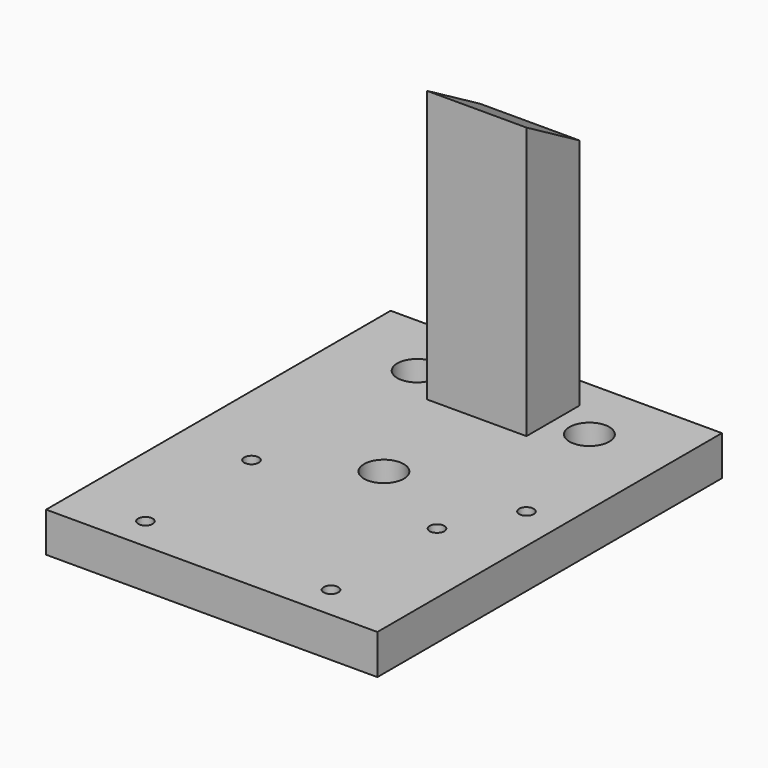
from build123d import *

# Parameters (mm, degrees)
F0_W           = 50
F0_H           = 65
F1_DEPTH       = 6
F2_W           = 15
F2_H           = 10
F3_DEPTH       = 41
F5_D           = 3.2
F5_CBORE_D     = 6
F5_CBORE_DEPTH = 3.5
F7_D           = 2.2
F9_DEPTH       = 15


with BuildPart() as f1:
    # F0 (on Top) → F1 (new body)
    with BuildSketch(Plane.XY):
        with Locations((25, 32.5)):
            Rectangle(F0_W, F0_H)
    extrude(amount=F1_DEPTH)

    # F2 (on face) → F3 (join)
    with BuildSketch(Plane.XY.offset(6)):
        with Locations((25, 55)):
            Rectangle(F2_W, F2_H)
    extrude(amount=F3_DEPTH)

    # F5 (through all)
    with Locations(Plane.XY.offset(6)):
        with Locations((12, 55), (38, 55), (25, 32.48334)):
            CounterBoreHole(F5_D / 2, F5_CBORE_D / 2, F5_CBORE_DEPTH)

    # F7 (through all)
    with Locations(Plane.XY.offset(6)):
        with Locations((11, 25), (39, 25), (39, 5), (11, 5), (44.5, 35)):
            Hole(F7_D / 2)

    # F8 (on face) → F9 (cut, through all)
    with BuildSketch(Plane.YZ.offset(32.5)):
        Polygon((60, 47), (50, 47), (60, 41.226497), align=None)
    extrude(amount=-F9_DEPTH, mode=Mode.SUBTRACT)


solid = f1.part
